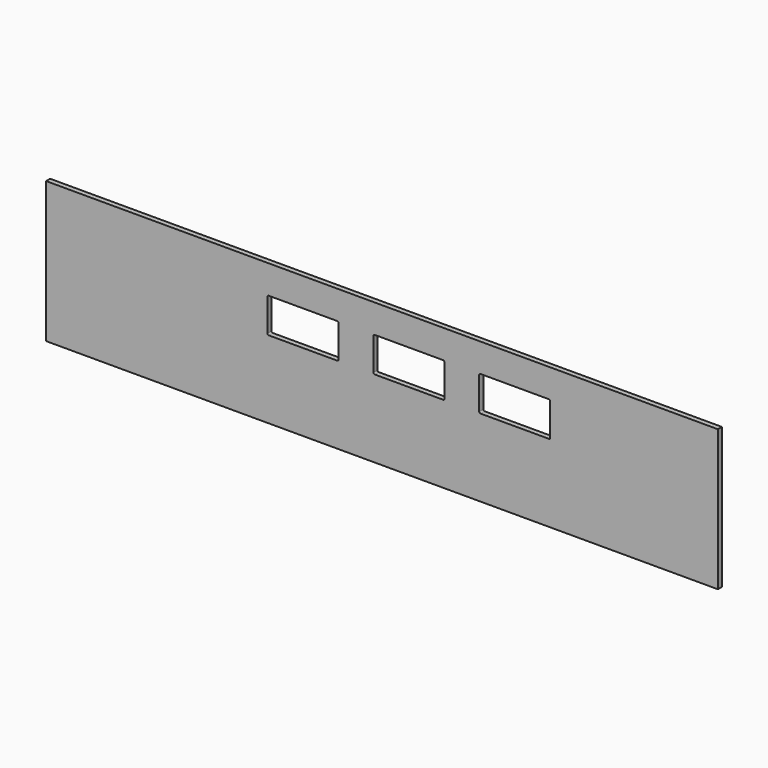
from build123d import *

# Parameters (mm, degrees)
F0_W     = 423.8752
F0_H     = 88.9
F1_DEPTH = 3.2


with BuildPart() as f1:
    # F0 (on Front) → F1 (new body)
    with BuildSketch(Plane.XZ):
        Rectangle(F0_W, F0_H)
        with BuildLine():
            ThreePointArc((-72.2376, 25.65625), (-72.005116, 26.217516), (-71.44385, 26.45))
            Line((-71.44385, 26.45), (-28.23135, 26.45))
            ThreePointArc((-28.23135, 26.45), (-27.670084, 26.217516), (-27.4376, 25.65625))
            Line((-27.4376, 25.65625), (-27.4376, 5.24375))
            ThreePointArc((-27.4376, 5.24375), (-27.670084, 4.682484), (-28.23135, 4.45))
            Line((-28.23135, 4.45), (-71.44385, 4.45))
            ThreePointArc((-71.44385, 4.45), (-72.005116, 4.682484), (-72.2376, 5.24375))
            Line((-72.2376, 5.24375), (-72.2376, 25.65625))
        make_face(mode=Mode.SUBTRACT)
        with BuildLine():
            ThreePointArc((-5.4376, 25.65625), (-5.205116, 26.217516), (-4.64385, 26.45))
            Line((-4.64385, 26.45), (38.56865, 26.45))
            ThreePointArc((38.56865, 26.45), (39.129916, 26.217516), (39.3624, 25.65625))
            Line((39.3624, 25.65625), (39.3624, 5.24375))
            ThreePointArc((39.3624, 5.24375), (39.129916, 4.682484), (38.56865, 4.45))
            Line((38.56865, 4.45), (-4.64385, 4.45))
            ThreePointArc((-4.64385, 4.45), (-5.205116, 4.682484), (-5.4376, 5.24375))
            Line((-5.4376, 5.24375), (-5.4376, 25.65625))
        make_face(mode=Mode.SUBTRACT)
        with BuildLine():
            ThreePointArc((61.3624, 25.65625), (61.594884, 26.217516), (62.15615, 26.45))
            Line((62.15615, 26.45), (105.36865, 26.45))
            ThreePointArc((105.36865, 26.45), (105.929916, 26.217516), (106.1624, 25.65625))
            Line((106.1624, 25.65625), (106.1624, 5.24375))
            ThreePointArc((106.1624, 5.24375), (105.929916, 4.682484), (105.36865, 4.45))
            Line((105.36865, 4.45), (62.15615, 4.45))
            ThreePointArc((62.15615, 4.45), (61.594884, 4.682484), (61.3624, 5.24375))
            Line((61.3624, 5.24375), (61.3624, 25.65625))
        make_face(mode=Mode.SUBTRACT)
    extrude(amount=F1_DEPTH)


solid = f1.part
